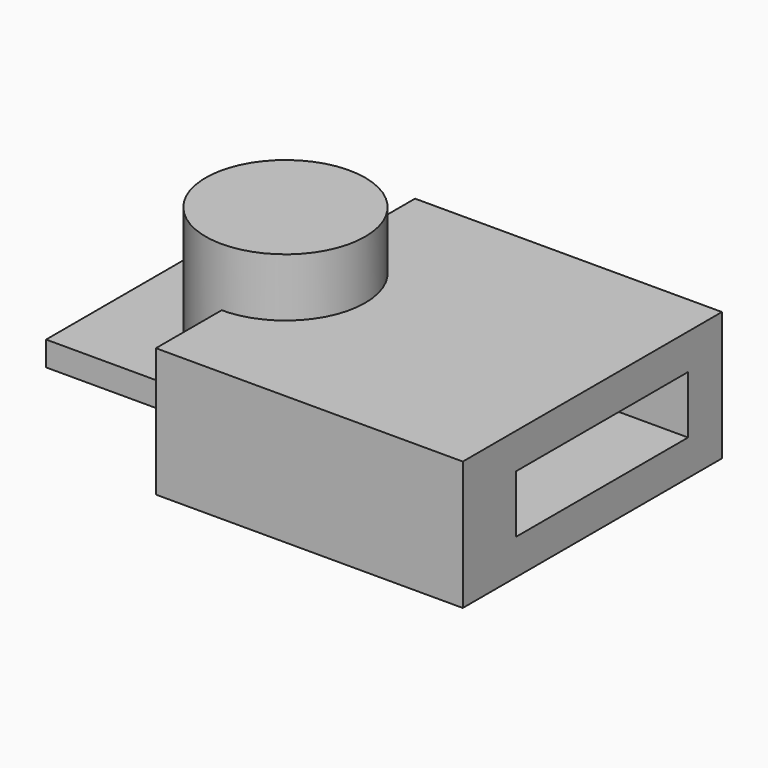
from build123d import *

# Parameters (mm, degrees)
F0_R      = 13
F1_DEPTH  = 20
F2_W      = 13.8
F2_H      = 10.8
F3_DEPTH  = 10
F4_R      = 2.9
F5_DEPTH  = 10
F6_W      = 50
F6_H      = 12.8
F7_DEPTH  = 4
F8_W      = 50
F8_H      = 35
F9_DEPTH  = 4
F10_W     = 52.769538
F10_H     = 21.002858
F10_W_2   = 35
F10_H_2   = 9.4
F11_DEPTH = 50


with BuildPart() as f1:
    # F0 (on Top) → F1 (new body)
    with BuildSketch(Plane.XY):
        Circle(F0_R)
    extrude(amount=F1_DEPTH)


with BuildPart() as f3:
    # F2 (on Top) → F3 (new body)
    with BuildSketch(Plane.XY):
        Rectangle(F2_W, F2_H)
    extrude(amount=-F3_DEPTH)


with BuildPart() as f5:
    # F4 (on Top) → F5 (new body)
    with BuildSketch(Plane.XY):
        Circle(F4_R)
    extrude(amount=-F5_DEPTH)


with BuildPart() as f7:
    # F6 (on Top) → F7 (new body)
    with BuildSketch(Plane.XY):
        Rectangle(F6_W, F6_H)
    extrude(amount=-F7_DEPTH)


with BuildPart() as f9:
    # F8 (on Top) → F9 (new body)
    with BuildSketch(Plane.XY):
        Rectangle(F8_W, F8_H)
    extrude(amount=-F9_DEPTH)


with BuildPart() as f11:
    # F10 (on Right) → F11 (new body)
    with BuildSketch(Plane.YZ):
        Rectangle(F10_W, F10_H)
        with Locations((1.995266, 0)):
            Rectangle(F10_W_2, F10_H_2, mode=Mode.SUBTRACT)
    extrude(amount=F11_DEPTH)


solid = Compound([f1.part, f3.part, f5.part, f7.part, f9.part, f11.part])
